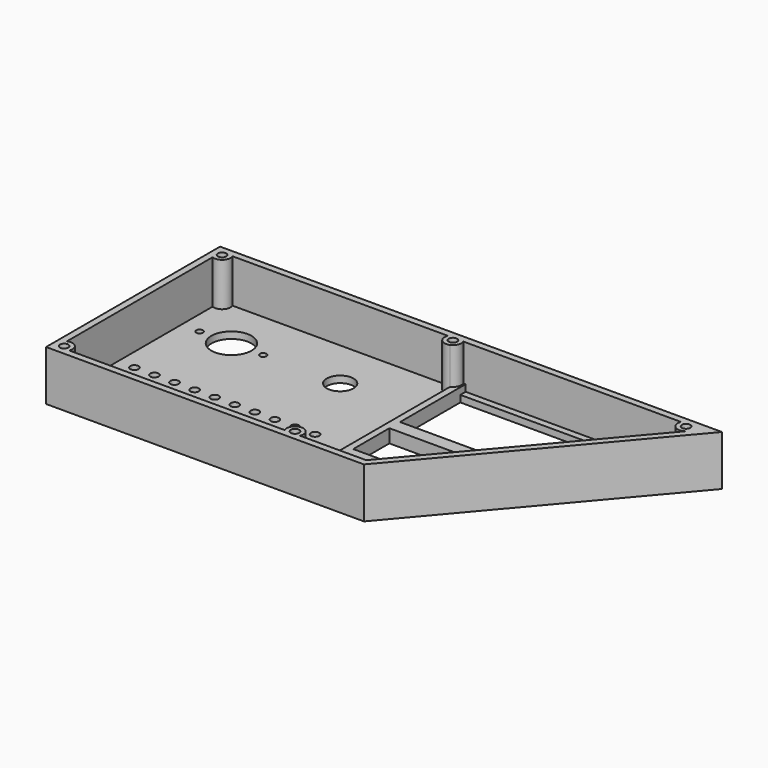
from build123d import *

# Parameters (mm, degrees)
F1_DEPTH = 4
F0_R     = 3
F0_R_2   = 2.5
F0_R_3   = 2
F0_R_4   = 12
F0_R_5   = 8
F2_DEPTH = 8
F3_DEPTH = 30


with BuildPart() as f1:
    # F0 (on Top) → F1 (new body)
    with BuildSketch(Plane.XY):
        with BuildLine():
            Line((236, 122), (236, 77))
            Line((236, 77), (249.9140349643, 77))
            Line((249.9140349643, 77), (286.1814989821, 119.8615483846))
            ThreePointArc((286.1814989821, 119.8615483846), (280.1803788328, 120.1541279906), (278.7929977309, 126))
            Line((278.7929977309, 126), (150, 126))
            Line((150, 126), (150, 122))
            Line((150, 122), (236, 122))
        make_face()
    extrude(amount=F1_DEPTH)



with BuildPart() as f1b:
    # F0 (on Top) → F1, piece 2 (new body)
    with BuildSketch(Plane.XY):
        Polygon((220.2986503489, 42), (243.1448041951, 69), (195, 69), (195, 42), align=None)
    extrude(amount=F1_DEPTH)


with BuildPart() as f1c:
    # F0 (on Top) → F1, piece 3 (new body)
    with BuildSketch(Plane.XY):
        Polygon((203.3755734259, 22), (215.221727272, 36), (177, 36), (177, 22), align=None)
    extrude(amount=F1_DEPTH)


with BuildPart() as f1d:
    # F0 (on Top) → F1, piece 4 (new body)
    with BuildSketch(Plane.XY):
        Polygon((188.1448041951, 4), (199.9909580413, 18), (177, 18), (177, 4), align=None)
    extrude(amount=F1_DEPTH)


with BuildPart() as f1e:
    # F0 (on Top) → F1, piece 5 (new body)
    with BuildSketch(Plane.XY):
        with BuildLine():
            Line((146, 10.582575695), (146, 119.417424305))
            ThreePointArc((146, 119.417424305), (140.4644660941, 120.4644660941), (139.417424305, 126))
            Line((139.417424305, 126), (10.582575695, 126))
            ThreePointArc((10.582575695, 126), (9.5355339059, 120.4644660941), (4, 119.417424305))
            Line((4, 119.417424305), (4, 10.582575695))
            ThreePointArc((4, 10.582575695), (9.5355339059, 9.5355339059), (10.582575695, 4))
            Line((10.582575695, 4), (139.417424305, 4))
            ThreePointArc((139.417424305, 4), (140.4644660941, 9.5355339059), (146, 10.582575695))
        make_face()
        with Locations((14, 23.5)):
            Circle(F0_R, mode=Mode.SUBTRACT)
        with Locations((26, 23.5)):
            Circle(F0_R, mode=Mode.SUBTRACT)
        with Locations((38, 23.5)):
            Circle(F0_R, mode=Mode.SUBTRACT)
        with Locations((50, 23.5)):
            Circle(F0_R, mode=Mode.SUBTRACT)
        with Locations((62, 23.5)):
            Circle(F0_R, mode=Mode.SUBTRACT)
        with Locations((74, 23.5)):
            Circle(F0_R, mode=Mode.SUBTRACT)
        with Locations((86, 23.5)):
            Circle(F0_R, mode=Mode.SUBTRACT)
        with Locations((98, 23.5)):
            Circle(F0_R, mode=Mode.SUBTRACT)
        with Locations((110, 23.5)):
            Circle(F0_R, mode=Mode.SUBTRACT)
        with Locations((122, 23.5)):
            Circle(F0_R, mode=Mode.SUBTRACT)
        with Locations((14, 38.5)):
            Circle(F0_R_2, mode=Mode.SUBTRACT)
        with Locations((26, 38.5)):
            Circle(F0_R_2, mode=Mode.SUBTRACT)
        with Locations((14, 48.5)):
            Circle(F0_R_2, mode=Mode.SUBTRACT)
        with Locations((26, 48.5)):
            Circle(F0_R_2, mode=Mode.SUBTRACT)
        with Locations((38, 38.5)):
            Circle(F0_R_2, mode=Mode.SUBTRACT)
        with Locations((50, 38.5)):
            Circle(F0_R_2, mode=Mode.SUBTRACT)
        with Locations((62, 38.5)):
            Circle(F0_R_2, mode=Mode.SUBTRACT)
        with Locations((74, 38.5)):
            Circle(F0_R_2, mode=Mode.SUBTRACT)
        with Locations((38, 48.5)):
            Circle(F0_R_2, mode=Mode.SUBTRACT)
        with Locations((50, 48.5)):
            Circle(F0_R_2, mode=Mode.SUBTRACT)
        with Locations((62, 48.5)):
            Circle(F0_R_2, mode=Mode.SUBTRACT)
        with Locations((74, 48.5)):
            Circle(F0_R_2, mode=Mode.SUBTRACT)
        with Locations((86, 38.5)):
            Circle(F0_R_2, mode=Mode.SUBTRACT)
        with Locations((98, 38.5)):
            Circle(F0_R_2, mode=Mode.SUBTRACT)
        with Locations((110, 38.5)):
            Circle(F0_R_2, mode=Mode.SUBTRACT)
        with Locations((86, 48.5)):
            Circle(F0_R_2, mode=Mode.SUBTRACT)
        with Locations((98, 48.5)):
            Circle(F0_R_2, mode=Mode.SUBTRACT)
        with Locations((110, 48.5)):
            Circle(F0_R_2, mode=Mode.SUBTRACT)
        with Locations((122, 38.5)):
            Circle(F0_R_2, mode=Mode.SUBTRACT)
        with Locations((122, 48.5)):
            Circle(F0_R_2, mode=Mode.SUBTRACT)
        with Locations((15, 96)):
            Circle(F0_R_3, mode=Mode.SUBTRACT)
        with Locations((34, 96)):
            Circle(F0_R_4, mode=Mode.SUBTRACT)
        with Locations((53, 96)):
            Circle(F0_R_3, mode=Mode.SUBTRACT)
        with Locations((99, 96)):
            Circle(F0_R_5, mode=Mode.SUBTRACT)
    extrude(amount=F1_DEPTH)


with BuildPart() as f1_1:
    add(f1.part)

    add(f1b.part)  # F2 merges F1b

    add(f1c.part)  # F2 merges F1c

    add(f1d.part)  # F2 merges F1d

    add(f1e.part)  # F2 merges F1e
    # F0 (on Top) → F2 (join)
    with BuildSketch(Plane.XY):
        Polygon((249.9140349643, 77), (236, 77), (150, 77), (150, 69), (195, 69), (243.1448041951, 69), align=None)
        with BuildLine():
            Line((150, 69), (150, 77))
            Line((150, 77), (150, 122))
            Line((150, 122), (150, 126))
            Line((150, 126), (148.582575695, 126))
            ThreePointArc((148.582575695, 126), (148.6545839116, 122.1738432132), (146, 119.417424305))
            Line((146, 119.417424305), (146, 10.582575695))
            ThreePointArc((146, 10.582575695), (148.6545839116, 7.8261567868), (148.582575695, 4))
            Line((148.582575695, 4), (150, 4))
            Line((150, 4), (150, 18))
            Line((150, 18), (150, 22))
            Line((150, 22), (150, 36))
            Line((150, 36), (150, 42))
            Line((150, 42), (150, 69))
        make_face()
        Polygon((195, 42), (150, 42), (150, 36), (173, 36), (173, 22), (150, 22), (150, 18), (173, 18), (173, 4), (177, 4), (177, 18), (199.9909580413, 18), (203.3755734259, 22), (177, 22), (177, 36), (215.221727272, 36), (220.2986503489, 42), align=None)
    extrude(amount=F2_DEPTH)

    # F0 (on Top) → F3 (join)
    with BuildSketch(Plane.XY):
        Polygon((0, 130), (0, 0), (190, 0), (300, 130), align=None)
        with Locations((6, 6)):
            Circle(F0_R_2, mode=Mode.SUBTRACT)
        with Locations((144, 6)):
            Circle(F0_R_2, mode=Mode.SUBTRACT)
        with BuildLine():
            Line((286.1814989821, 119.8615483846), (249.9140349643, 77))
            Line((249.9140349643, 77), (243.1448041951, 69))
            Line((243.1448041951, 69), (220.2986503489, 42))
            Line((220.2986503489, 42), (215.221727272, 36))
            Line((215.221727272, 36), (203.3755734259, 22))
            Line((203.3755734259, 22), (199.9909580413, 18))
            Line((199.9909580413, 18), (188.1448041951, 4))
            Line((188.1448041951, 4), (177, 4))
            Line((177, 4), (173, 4))
            Line((173, 4), (150, 4))
            Line((150, 4), (148.582575695, 4))
            ThreePointArc((148.582575695, 4), (148.6545839116, 7.8261567868), (146, 10.582575695))
            ThreePointArc((146, 10.582575695), (140.4644660941, 9.5355339059), (139.417424305, 4))
            Line((139.417424305, 4), (10.582575695, 4))
            ThreePointArc((10.582575695, 4), (9.5355339059, 9.5355339059), (4, 10.582575695))
            Line((4, 10.582575695), (4, 119.417424305))
            ThreePointArc((4, 119.417424305), (9.5355339059, 120.4644660941), (10.582575695, 126))
            Line((10.582575695, 126), (139.417424305, 126))
            ThreePointArc((139.417424305, 126), (140.4644660941, 120.4644660941), (146, 119.417424305))
            ThreePointArc((146, 119.417424305), (148.6545839116, 122.1738432132), (148.582575695, 126))
            Line((148.582575695, 126), (150, 126))
            Line((150, 126), (278.7929977309, 126))
            ThreePointArc((278.7929977309, 126), (280.1803788328, 120.1541279906), (286.1814989821, 119.8615483846))
        make_face(mode=Mode.SUBTRACT)
        with Locations((6, 124)):
            Circle(F0_R_2, mode=Mode.SUBTRACT)
        with Locations((144, 124)):
            Circle(F0_R_2, mode=Mode.SUBTRACT)
        with Locations((283.3755734259, 124)):
            Circle(F0_R_2, mode=Mode.SUBTRACT)
    extrude(amount=F3_DEPTH)


solid = f1_1.part
